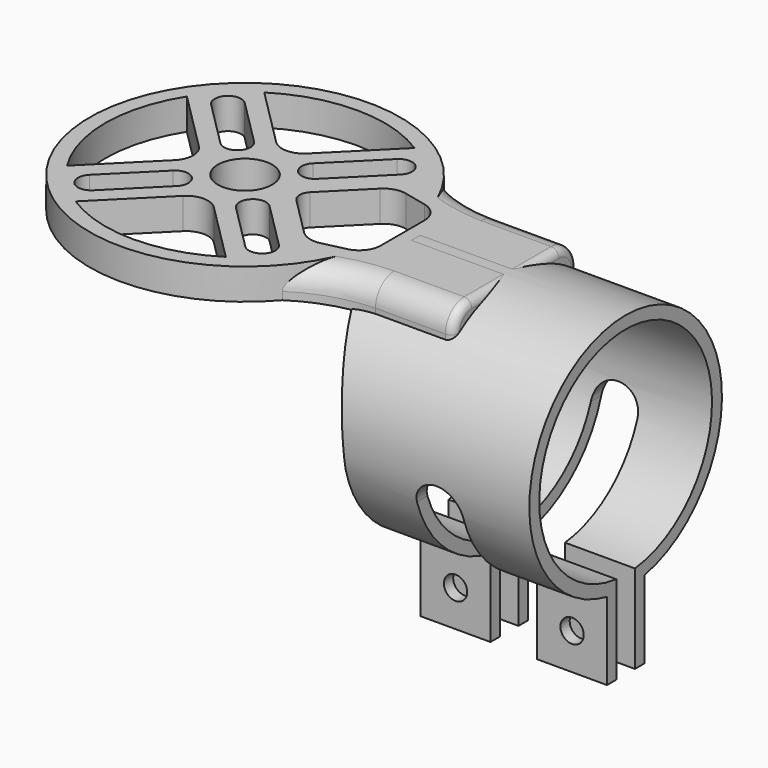
from build123d import *

# Parameters (mm, degrees)
SKETCH003_AS_DRAWN_R                 = 1.5
EXTRUDE005_DEPTH                     = 32
EXTRUDE005_ONTO_SKETCH003_ROLL_ANGLE = 90
EXTRUDE002_DEPTH                     = 27
EXTRUDE003_DEPTH                     = 13
SKETCH_R                             = 3.5
EXTRUDE_DEPTH                        = 4
FILLET_R                             = 3
FILLET001_R                          = 1


with BuildPart() as bracket_cut_extrude:
    # Sketch003 as drawn → Extrude005 (new)
    with BuildSketch(Plane.XY):
        with Locations((29.5, -32)):
            Circle(SKETCH003_AS_DRAWN_R)
        with Locations((44.5, -32)):
            Circle(SKETCH003_AS_DRAWN_R)
        with BuildLine():
            Line((34, -37), (34, -16))
            ThreePointArc((40, -16), (37, -13), (34, -16))
            Line((40, -16), (40, -37))
            Line((34, -37), (40, -37))
        make_face()
        with BuildLine():
            Line((18.5, 0), (18.5, -39))
            Line((18.5, -39), (25, -39))
            Line((25, -39), (25, -15.18958))
            ThreePointArc((25, -15.18958), (24.432523, -7.410613), (22, 0))
            Line((18.5, 0), (22, 0))
        make_face()
    extrude(amount=-EXTRUDE005_DEPTH)


with BuildPart() as bracket_cut_extrude_1:
    # Extrude005 onto Sketch003 roll: moved
    add(bracket_cut_extrude.part.rotate(Axis((0, 0, 0), (1, 0, 0)), EXTRUDE005_ONTO_SKETCH003_ROLL_ANGLE))


with BuildPart() as bracket_cut_extrude_2:
    # Extrude005 onto Sketch003 placement: moved
    add(bracket_cut_extrude_1.part.moved(Location((0, -16, 0))))


with BuildPart() as bracket_cut:
    # Sketch001 → Extrude002 (new body)
    with BuildSketch(Plane.YZ.offset(25)):
        with BuildLine():
            ThreePointArc((3, -26.690906), (0, 4.016), (-3, -26.690906))
            Line((-3, -26.690906), (-3, -36.690906))
            Line((-3, -36.690906), (-1.5, -36.690906))
            Line((-1.5, -36.690906), (-1.5, -25.302828))
            ThreePointArc((1.5, -25.302828), (0, 2.416), (-1.5, -25.302828))
            Line((1.5, -36.690906), (1.5, -25.302828))
            Line((3, -36.690906), (1.5, -36.690906))
            Line((3, -26.690906), (3, -36.690906))
        make_face()
    extrude(amount=EXTRUDE002_DEPTH)


with BuildPart() as bracket_cut_1:
    # Extrude002 placement: moved
    add(bracket_cut.part.moved(Location((-3, 0, 0))))

    # Cut001: cut Bracket_Cut_Extrude
    add(bracket_cut_extrude_2.part, mode=Mode.SUBTRACT)


with BuildPart() as cutout_extrude:
    # Sketch002 → Extrude003 (new body)
    with BuildSketch(Plane.YZ.offset(34.801316)):
        with BuildLine():
            ThreePointArc((9.396876, -1.257504), (0, 2.4), (-9.396876, -1.257504))
            Line((-9.396876, -1.257504), (9.396876, -1.257504))
        make_face()
    extrude(amount=-EXTRUDE003_DEPTH)


with BuildPart() as fusion:
    # Sketch → Extrude (new body)
    with BuildSketch(Plane.XY):
        with BuildLine():
            ThreePointArc((15.198684, 13), (-20, 0), (15.198684, -13))
            ThreePointArc((24.801316, -10), (19.786149, -10.815491), (15.198684, -13))
            Line((34.801316, -10), (24.801316, -10))
            Line((34.801316, 10), (34.801316, -10))
            Line((24.801316, 10), (34.801316, 10))
            ThreePointArc((15.198684, 13), (19.786149, 10.815491), (24.801316, 10))
        make_face()
        Circle(SKETCH_R, mode=Mode.SUBTRACT)
        with BuildLine():
            ThreePointArc((3.797918, 6.202082), (3.797918, 3.797918), (6.202082, 3.797918))
            Line((6.202082, 3.797918), (12.202082, 9.797918))
            ThreePointArc((12.202082, 9.797918), (12.202082, 12.202082), (9.797918, 12.202082))
            Line((3.797918, 6.202082), (9.797918, 12.202082))
        make_face(mode=Mode.SUBTRACT)
        with BuildLine():
            ThreePointArc((-6.202082, 3.797918), (-3.797918, 3.797918), (-3.797918, 6.202082))
            Line((-3.797918, 6.202082), (-9.797918, 12.202082))
            ThreePointArc((-9.797918, 12.202082), (-12.202082, 12.202082), (-12.202082, 9.797918))
            Line((-6.202082, 3.797918), (-12.202082, 9.797918))
        make_face(mode=Mode.SUBTRACT)
        with BuildLine():
            ThreePointArc((-3.797918, -6.202082), (-3.797918, -3.797918), (-6.202082, -3.797918))
            Line((-6.202082, -3.797918), (-12.202082, -9.797918))
            ThreePointArc((-12.202082, -9.797918), (-12.202082, -12.202082), (-9.797918, -12.202082))
            Line((-3.797918, -6.202082), (-9.797918, -12.202082))
        make_face(mode=Mode.SUBTRACT)
        with BuildLine():
            ThreePointArc((6.202082, -3.797918), (3.797918, -3.797918), (3.797918, -6.202082))
            Line((3.797918, -6.202082), (9.797918, -12.202082))
            ThreePointArc((9.797918, -12.202082), (12.202082, -12.202082), (12.202082, -9.797918))
            Line((6.202082, -3.797918), (12.202082, -9.797918))
        make_face(mode=Mode.SUBTRACT)
        with BuildLine():
            Line((-15.198684, 9.643651), (-7.5, 1.944967))
            ThreePointArc((-7.5, -1.944967), (-6.694368, 0), (-7.5, 1.944967))
            Line((-15.198684, -9.643651), (-7.5, -1.944967))
            ThreePointArc((-15.198684, 9.643651), (-18, 0), (-15.198684, -9.643651))
        make_face(mode=Mode.SUBTRACT)
        with BuildLine():
            ThreePointArc((-9.671393, -15.181046), (0, -18), (9.671393, -15.181046))
            Line((9.671393, -15.181046), (1.990347, -7.5))
            ThreePointArc((1.990347, -7.5), (0, -6.675571), (-1.990347, -7.5))
            Line((-9.671393, -15.181046), (-1.990347, -7.5))
        make_face(mode=Mode.SUBTRACT)
        with BuildLine():
            ThreePointArc((9.671393, 15.181046), (0, 18), (-9.671393, 15.181046))
            Line((-9.671393, 15.181046), (-1.990347, 7.5))
            ThreePointArc((-1.990347, 7.5), (0, 6.675571), (1.990347, 7.5))
            Line((9.671393, 15.181046), (1.990347, 7.5))
        make_face(mode=Mode.SUBTRACT)
        with BuildLine():
            Line((7.5, 1.116375), (12.503518, 6.119893))
            ThreePointArc((15.198684, 6.896747), (13.750933, 6.855837), (12.503518, 6.119893))
            Line((15.198684, 6.896747), (18.123646, 6.229964))
            ThreePointArc((20.301316, 3.5), (19.690211, 5.246064), (18.123646, 6.229964))
            Line((20.301316, 3.5), (20.301316, -3.5))
            ThreePointArc((18.123646, -6.229964), (19.690211, -5.246064), (20.301316, -3.5))
            Line((18.123646, -6.229964), (15.198684, -6.896747))
            ThreePointArc((12.503518, -6.119893), (13.750933, -6.855837), (15.198684, -6.896747))
            Line((12.503518, -6.119893), (7.5, -1.116375))
            ThreePointArc((7.5, 1.116375), (7.037582, 0), (7.5, -1.116375))
        make_face(mode=Mode.SUBTRACT)
    extrude(amount=EXTRUDE_DEPTH)

    # Cut: cut Cutout_Extrude
    add(cutout_extrude.part, mode=Mode.SUBTRACT)

    # Fillet
    fillet_edges = [fusion.edges().sort_by_distance(p)[0] for p in [
        (29.801316, -10, 4),
        (29.801316, 10, 4),
    ]]
    fillet(fillet_edges, radius=FILLET_R)

    # Fillet001
    fillet001_edges = [fusion.edges().sort_by_distance(p)[0] for p in [
        (34.801316, 0, 4),
    ]]
    fillet(fillet001_edges, radius=FILLET001_R)

    # Fusion: union Bracket_Cut
    add(bracket_cut_1.part)


solid = fusion.part
